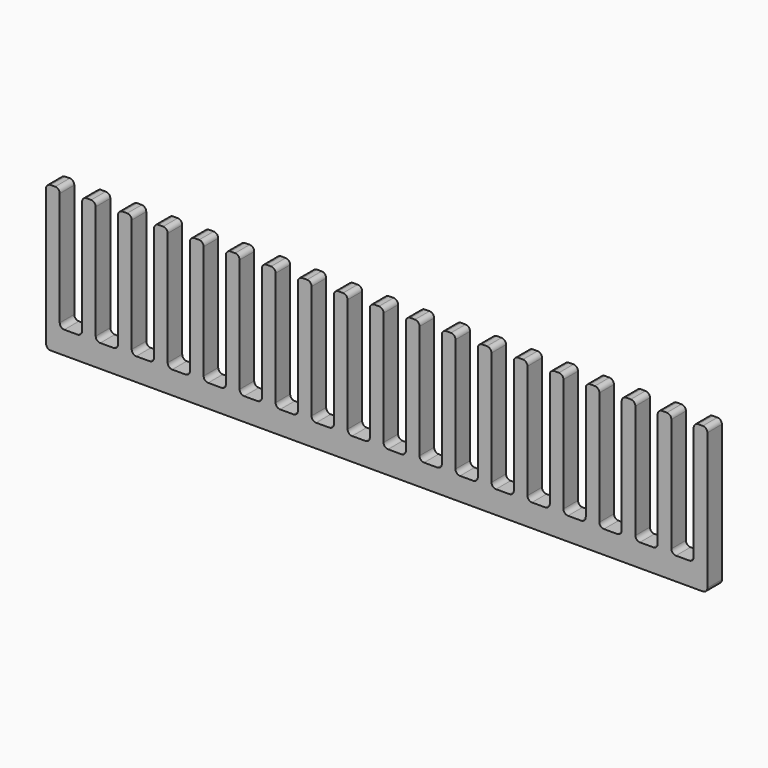
from build123d import *

# Parameters (mm, degrees)
F1_W          = 145.2
F1_H          = 32
F2_DEPTH      = 2
F3_DEPTH      = 2.001
F3_DEPTH_BACK = 2.001
F4_R          = 1


with BuildPart() as f2:
    # F1 (on Front) → F2 (new body, symmetric)
    with BuildSketch(Plane.XZ):
        with Locations((67.15, -2.5)):
            Rectangle(F1_W, F1_H)
    extrude(amount=F2_DEPTH, both=True)

    # F0 (on Front) → F3 (cut, two sides)
    with BuildSketch(Plane.XZ) as f3_sk:
        with BuildLine():
            Line((2.45, -12.5), (2.45, 13.5))
            Line((2.45, 13.5), (-2.45, 13.5))
            Line((-2.45, 13.5), (-2.45, -12.5))
            ThreePointArc((-2.45, -12.5), (-2.1571067812, -13.2071067812), (-1.45, -13.5))
            Line((-1.45, -13.5), (1.45, -13.5))
            ThreePointArc((1.45, -13.5), (2.1571067812, -13.2071067812), (2.45, -12.5))
        make_face()
        with BuildLine():
            Line((10.35, 13.5), (5.45, 13.5))
            Line((5.45, 13.5), (5.45, -12.5))
            ThreePointArc((5.45, -12.5), (5.7428932188, -13.2071067812), (6.45, -13.5))
            Line((6.45, -13.5), (9.35, -13.5))
            ThreePointArc((9.35, -13.5), (10.0571067812, -13.2071067812), (10.35, -12.5))
            Line((10.35, -12.5), (10.35, 13.5))
        make_face()
        with BuildLine():
            Line((18.25, 13.5), (13.35, 13.5))
            Line((13.35, 13.5), (13.35, -12.5))
            ThreePointArc((13.35, -12.5), (13.6428932188, -13.2071067812), (14.35, -13.5))
            Line((14.35, -13.5), (17.25, -13.5))
            ThreePointArc((17.25, -13.5), (17.9571067812, -13.2071067812), (18.25, -12.5))
            Line((18.25, -12.5), (18.25, 13.5))
        make_face()
        with BuildLine():
            Line((26.15, 13.5), (21.25, 13.5))
            Line((21.25, 13.5), (21.25, -12.5))
            ThreePointArc((21.25, -12.5), (21.5428932188, -13.2071067812), (22.25, -13.5))
            Line((22.25, -13.5), (25.15, -13.5))
            ThreePointArc((25.15, -13.5), (25.8571067812, -13.2071067812), (26.15, -12.5))
            Line((26.15, -12.5), (26.15, 13.5))
        make_face()
        with BuildLine():
            Line((34.05, 13.5), (29.15, 13.5))
            Line((29.15, 13.5), (29.15, -12.5))
            ThreePointArc((29.15, -12.5), (29.4428932188, -13.2071067812), (30.15, -13.5))
            Line((30.15, -13.5), (33.05, -13.5))
            ThreePointArc((33.05, -13.5), (33.7571067812, -13.2071067812), (34.05, -12.5))
            Line((34.05, -12.5), (34.05, 13.5))
        make_face()
        with BuildLine():
            Line((41.95, 13.5), (37.05, 13.5))
            Line((37.05, 13.5), (37.05, -12.5))
            ThreePointArc((37.05, -12.5), (37.3428932188, -13.2071067812), (38.05, -13.5))
            Line((38.05, -13.5), (40.95, -13.5))
            ThreePointArc((40.95, -13.5), (41.6571067812, -13.2071067812), (41.95, -12.5))
            Line((41.95, -12.5), (41.95, 13.5))
        make_face()
        with BuildLine():
            Line((49.85, 13.5), (44.95, 13.5))
            Line((44.95, 13.5), (44.95, -12.5))
            ThreePointArc((44.95, -12.5), (45.2428932188, -13.2071067812), (45.95, -13.5))
            Line((45.95, -13.5), (48.85, -13.5))
            ThreePointArc((48.85, -13.5), (49.5571067812, -13.2071067812), (49.85, -12.5))
            Line((49.85, -12.5), (49.85, 13.5))
        make_face()
        with BuildLine():
            Line((57.75, 13.5), (52.85, 13.5))
            Line((52.85, 13.5), (52.85, -12.5))
            ThreePointArc((52.85, -12.5), (53.1428932188, -13.2071067812), (53.85, -13.5))
            Line((53.85, -13.5), (56.75, -13.5))
            ThreePointArc((56.75, -13.5), (57.4571067812, -13.2071067812), (57.75, -12.5))
            Line((57.75, -12.5), (57.75, 13.5))
        make_face()
        with BuildLine():
            Line((65.65, 13.5), (60.75, 13.5))
            Line((60.75, 13.5), (60.75, -12.5))
            ThreePointArc((60.75, -12.5), (61.0428932188, -13.2071067812), (61.75, -13.5))
            Line((61.75, -13.5), (64.65, -13.5))
            ThreePointArc((64.65, -13.5), (65.3571067812, -13.2071067812), (65.65, -12.5))
            Line((65.65, -12.5), (65.65, 13.5))
        make_face()
        with BuildLine():
            Line((73.55, 13.5), (68.65, 13.5))
            Line((68.65, 13.5), (68.65, -12.5))
            ThreePointArc((68.65, -12.5), (68.9428932188, -13.2071067812), (69.65, -13.5))
            Line((69.65, -13.5), (72.55, -13.5))
            ThreePointArc((72.55, -13.5), (73.2571067812, -13.2071067812), (73.55, -12.5))
            Line((73.55, -12.5), (73.55, 13.5))
        make_face()
        with BuildLine():
            Line((81.45, 13.5), (76.55, 13.5))
            Line((76.55, 13.5), (76.55, -12.5))
            ThreePointArc((76.55, -12.5), (76.8428932188, -13.2071067812), (77.55, -13.5))
            Line((77.55, -13.5), (80.45, -13.5))
            ThreePointArc((80.45, -13.5), (81.1571067812, -13.2071067812), (81.45, -12.5))
            Line((81.45, -12.5), (81.45, 13.5))
        make_face()
        with BuildLine():
            Line((89.35, 13.5), (84.45, 13.5))
            Line((84.45, 13.5), (84.45, -12.5))
            ThreePointArc((84.45, -12.5), (84.7428932188, -13.2071067812), (85.45, -13.5))
            Line((85.45, -13.5), (88.35, -13.5))
            ThreePointArc((88.35, -13.5), (89.0571067812, -13.2071067812), (89.35, -12.5))
            Line((89.35, -12.5), (89.35, 13.5))
        make_face()
        with BuildLine():
            Line((97.25, 13.5), (92.35, 13.5))
            Line((92.35, 13.5), (92.35, -12.5))
            ThreePointArc((92.35, -12.5), (92.6428932188, -13.2071067812), (93.35, -13.5))
            Line((93.35, -13.5), (96.25, -13.5))
            ThreePointArc((96.25, -13.5), (96.9571067812, -13.2071067812), (97.25, -12.5))
            Line((97.25, -12.5), (97.25, 13.5))
        make_face()
        with BuildLine():
            Line((105.15, 13.5), (100.25, 13.5))
            Line((100.25, 13.5), (100.25, -12.5))
            ThreePointArc((100.25, -12.5), (100.5428932188, -13.2071067812), (101.25, -13.5))
            Line((101.25, -13.5), (104.15, -13.5))
            ThreePointArc((104.15, -13.5), (104.8571067812, -13.2071067812), (105.15, -12.5))
            Line((105.15, -12.5), (105.15, 13.5))
        make_face()
        with BuildLine():
            Line((113.05, 13.5), (108.15, 13.5))
            Line((108.15, 13.5), (108.15, -12.5))
            ThreePointArc((108.15, -12.5), (108.4428932188, -13.2071067812), (109.15, -13.5))
            Line((109.15, -13.5), (112.05, -13.5))
            ThreePointArc((112.05, -13.5), (112.7571067812, -13.2071067812), (113.05, -12.5))
            Line((113.05, -12.5), (113.05, 13.5))
        make_face()
        with BuildLine():
            Line((120.95, 13.5), (116.05, 13.5))
            Line((116.05, 13.5), (116.05, -12.5))
            ThreePointArc((116.05, -12.5), (116.3428932188, -13.2071067812), (117.05, -13.5))
            Line((117.05, -13.5), (119.95, -13.5))
            ThreePointArc((119.95, -13.5), (120.6571067812, -13.2071067812), (120.95, -12.5))
            Line((120.95, -12.5), (120.95, 13.5))
        make_face()
        with BuildLine():
            Line((128.85, 13.5), (123.95, 13.5))
            Line((123.95, 13.5), (123.95, -12.5))
            ThreePointArc((123.95, -12.5), (124.2428932188, -13.2071067812), (124.95, -13.5))
            Line((124.95, -13.5), (127.85, -13.5))
            ThreePointArc((127.85, -13.5), (128.5571067812, -13.2071067812), (128.85, -12.5))
            Line((128.85, -12.5), (128.85, 13.5))
        make_face()
        with BuildLine():
            Line((136.75, 13.5), (131.85, 13.5))
            Line((131.85, 13.5), (131.85, -12.5))
            ThreePointArc((131.85, -12.5), (132.1428932188, -13.2071067812), (132.85, -13.5))
            Line((132.85, -13.5), (135.75, -13.5))
            ThreePointArc((135.75, -13.5), (136.4571067812, -13.2071067812), (136.75, -12.5))
            Line((136.75, -12.5), (136.75, 13.5))
        make_face()
    extrude(amount=-F3_DEPTH, mode=Mode.SUBTRACT)
    extrude(f3_sk.sketch, amount=F3_DEPTH_BACK, mode=Mode.SUBTRACT)

    # F4
    f4_edges = [f2.edges().sort_by_distance(p)[0] for p in [
        (-5.45, 0, 13.5),
        (139.75, 0, 13.5),
        (139.75, 0, -18.5),
        (-5.45, 0, -18.5),
        (-2.45, 0, 13.5),
        (5.45, 0, 13.5),
        (13.35, 0, 13.5),
        (2.45, 0, 13.5),
        (18.25, 0, 13.5),
        (26.15, 0, 13.5),
        (10.35, 0, 13.5),
        (21.25, 0, 13.5),
        (29.15, 0, 13.5),
        (34.05, 0, 13.5),
        (37.05, 0, 13.5),
        (41.95, 0, 13.5),
        (44.95, 0, 13.5),
        (49.85, 0, 13.5),
        (52.85, 0, 13.5),
        (60.75, 0, 13.5),
        (57.75, 0, 13.5),
        (65.65, 0, 13.5),
        (68.65, 0, 13.5),
        (73.55, 0, 13.5),
        (76.55, 0, 13.5),
        (81.45, 0, 13.5),
        (84.45, 0, 13.5),
        (89.35, 0, 13.5),
        (92.35, 0, 13.5),
        (97.25, 0, 13.5),
        (100.25, 0, 13.5),
        (105.15, 0, 13.5),
        (108.15, 0, 13.5),
        (113.05, 0, 13.5),
        (116.05, 0, 13.5),
        (120.95, 0, 13.5),
        (123.95, 0, 13.5),
        (128.85, 0, 13.5),
        (131.85, 0, 13.5),
        (136.75, 0, 13.5),
    ]]
    fillet(f4_edges, radius=F4_R)


solid = f2.part
